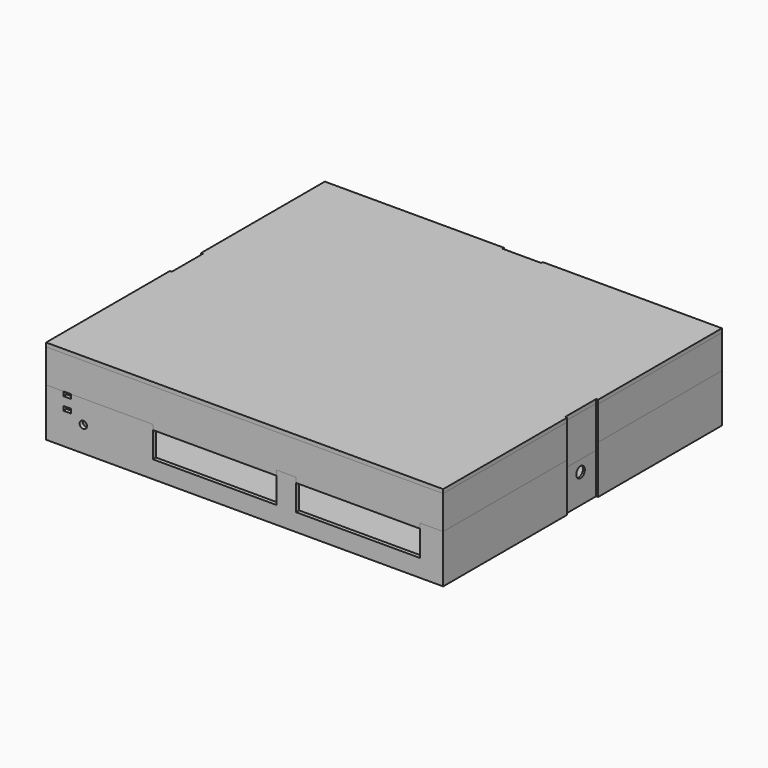
from build123d import *

# Parameters (mm, degrees)
PAD003_DEPTH           = 20
SKETCH_R               = 2.75
POCKET004_DEPTH        = 4
FILLET_R               = 1
SKETCH005_W            = 204
SKETCH005_H            = 179
SKETCH005_R            = 15
PAD_DEPTH              = 2
SKETCH006_R            = 5.075
SKETCH006_R_2          = 1.5
PAD004_DEPTH           = 5.25
POCKET_DEPTH           = 0.0001
SKETCH016_R            = 1.87
POCKET009_DEPTH        = 6
SKETCH008_W            = 204
SKETCH008_H            = 179
SKETCH008_W_2          = 200
SKETCH008_H_2          = 175
PAD005_DEPTH           = 22.8
SKETCH009_R            = 1.875
SKETCH009_W            = 63.55
SKETCH009_H            = 26.5
SKETCH009_W_2          = 3.9
SKETCH009_H_2          = 2.2
POCKET001_DEPTH        = 2
SKETCH011_R            = 17
SKETCH011_R_2          = 15
PAD006_DEPTH           = 2
POCKET005_DEPTH        = 4
SKETCH013_W            = 4
SKETCH013_H            = 20
SKETCH013_W_2          = 20
SKETCH013_H_2          = 4
POCKET006_DEPTH        = 24.8
SKETCH014_R            = 2.75
POCKET007_DEPTH        = 204
SKETCH015_R            = 2.75
POCKET008_DEPTH        = 2
POCKET010_DEPTH        = 2
LINEARPATTERN_COUNT    = 7
LINEARPATTERN_PITCH    = 12
SKETCH018_W            = 204
SKETCH018_H            = 179
SKETCH018_W_2          = 200
SKETCH018_H_2          = 175
PAD007_DEPTH           = 17.2
SKETCH019_W            = 204
SKETCH019_H            = 179
PAD008_DEPTH           = 2
SKETCH020_W            = 42.1
SKETCH020_H            = 1
SKETCH020_W_2          = 10
PAD009_DEPTH           = 4
SKETCH021_W            = 1
SKETCH021_H            = 20
SKETCH021_W_2          = 20
SKETCH021_H_2          = 1
POCKET011_DEPTH        = 19.2
POCKET012_DEPTH        = 2
LINEARPATTERN001_COUNT = 7
LINEARPATTERN001_PITCH = 12
SKETCH031_W            = 63.55
SKETCH031_H            = 2
PAD015_DEPTH           = 2.55
SKETCH023_W            = 204
SKETCH023_H            = 179
SKETCH023_W_2          = 200
SKETCH023_H_2          = 175
PAD010_DEPTH           = 17.2
SKETCH025_W            = 42.1
SKETCH025_H            = 1
SKETCH025_W_2          = 10
PAD012_DEPTH           = 4
POCKET014_DEPTH        = 2
LINEARPATTERN002_COUNT = 7
LINEARPATTERN002_PITCH = 12
SKETCH028_W            = 200
SKETCH028_H            = 175
SKETCH028_W_2          = 192
SKETCH028_H_2          = 167
PAD013_DEPTH           = 4
CHAMFER_SIZE           = 3.9
SKETCH029_W            = 1
SKETCH029_H            = 20
SKETCH029_W_2          = 20
SKETCH029_H_2          = 1
POCKET015_DEPTH        = 17.2
SKETCH030_W            = 63.55
SKETCH030_H            = 2
PAD014_DEPTH           = 2.55


with BuildPart() as locking_lever:
    # Sketch004 → Pad003 (new body)
    with BuildSketch(Plane.XY):
        Polygon((0, 4), (4, 0), (8, 0), (8, 6), (8, 46), (12, 46), (12, 48), (8, 52), (4, 52), (4, 46), (4, 6), (0, 6), align=None)
    extrude(amount=PAD003_DEPTH)

    # Sketch (on Face1 of Pad003) → Pocket004 (cut)
    with BuildSketch(Plane(origin=(4, 0, 0), x_dir=(0, -1, 0), z_dir=(-1, 0, 0))):
        with Locations((-15, 10)):
            Circle(SKETCH_R)
    extrude(amount=-POCKET004_DEPTH, mode=Mode.SUBTRACT)

    # Fillet
    fillet_edges = [locking_lever.edges().sort_by_distance(p)[0] for p in [
        (4, 26, 20),
        (4, 49, 20),
        (4, 52, 10),
        (4, 49, 0),
        (4, 26, 0),
        (0, 6, 10),
        (2, 6, 20),
        (2, 6, 0),
        (6, 52, 20),
        (6, 52, 0),
        (0, 5, 20),
        (0, 5, 0),
    ]]
    fillet(fillet_edges, radius=FILLET_R)


with BuildPart() as switch_bottom:
    # Sketch005 → Pad (new body)
    with BuildSketch(Plane.XY):
        with Locations((100, 87.5)):
            Rectangle(SKETCH005_W, SKETCH005_H)
        with Locations((42.875, 155)):
            Circle(SKETCH005_R, mode=Mode.SUBTRACT)
    extrude(amount=-PAD_DEPTH)

    # Sketch006 (on Face6 of Pad) → Pad004 (join)
    with BuildSketch(Plane.XY):
        with Locations((191.375, 29.5)):
            Circle(SKETCH006_R)
        with Locations((191.375, 29.5)):
            Circle(SKETCH006_R_2, mode=Mode.SUBTRACT)
        with Locations((8.375, 43.5)):
            Circle(SKETCH006_R)
        with Locations((8.375, 43.5)):
            Circle(SKETCH006_R_2, mode=Mode.SUBTRACT)
        with Locations((116.875, 70)):
            Circle(SKETCH006_R)
        with Locations((116.875, 70)):
            Circle(SKETCH006_R_2, mode=Mode.SUBTRACT)
        with Locations((191.375, 123)):
            Circle(SKETCH006_R)
        with Locations((191.375, 123)):
            Circle(SKETCH006_R_2, mode=Mode.SUBTRACT)
        with Locations((8.375, 123)):
            Circle(SKETCH006_R)
        with Locations((8.375, 123)):
            Circle(SKETCH006_R_2, mode=Mode.SUBTRACT)
    extrude(amount=PAD004_DEPTH)

    # Sketch007 (on Face15 of Pad004) → Pocket (cut)
    with BuildSketch(Plane.XY.offset(5.25)):
        Polygon((188.798521, 31.178506), (188.633132, 28.107957), (191.20961, 26.429451), (193.951479, 27.821494), (194.116868, 30.892043), (191.54039, 32.570549), align=None)
        Polygon((117.133421, 73.064122), (114.350603, 71.75586), (114.092182, 68.691738), (116.616579, 66.935878), (119.399397, 68.24414), (119.657818, 71.308262), align=None)
        Polygon((10.913507, 45.235398), (8.141354, 46.566111), (5.602847, 44.830712), (5.836493, 41.764602), (8.608646, 40.433889), (11.147153, 42.169288), align=None)
        Polygon((10.845599, 124.830782), (8.024796, 126.054993), (5.554196, 124.224211), (5.904401, 121.169218), (8.725204, 119.945007), (11.195804, 121.775789), align=None)
        Polygon((188.743648, 124.591104), (188.681387, 121.516735), (191.312739, 119.92563), (194.006352, 121.408896), (194.068613, 124.483265), (191.437261, 126.07437), align=None)
    extrude(amount=-POCKET_DEPTH, mode=Mode.SUBTRACT)

    # Sketch016 (on Face80 of Pocket008) → Pocket009 (cut)
    with BuildSketch(Plane.XY.offset(5.25)):
        with Locations((191.375, 29.5)):
            Circle(SKETCH016_R)
        with Locations((8.375, 43.5)):
            Circle(SKETCH016_R)
        with Locations((116.875, 70)):
            Circle(SKETCH016_R)
        with Locations((191.375, 123)):
            Circle(SKETCH016_R)
        with Locations((8.375, 123)):
            Circle(SKETCH016_R)
    extrude(amount=-POCKET009_DEPTH, mode=Mode.SUBTRACT)

    # Sketch008 (on Face4 of Pocket) → Pad005 (join)
    with BuildSketch(Plane.XY):
        with Locations((100, 87.5)):
            Rectangle(SKETCH008_W, SKETCH008_H)
        with Locations((100, 87.5)):
            Rectangle(SKETCH008_W_2, SKETCH008_H_2, mode=Mode.SUBTRACT)
    extrude(amount=PAD005_DEPTH)

    # Sketch009 (on Face4 of Pad005) → Pocket001 (cut)
    with BuildSketch(Plane.XZ.offset(2)):
        with Locations((17.125, 11)):
            Circle(SKETCH009_R)
        with Locations((84.65, 20.25)):
            Rectangle(SKETCH009_W, SKETCH009_H)
        with Locations((158.2, 20.25)):
            Rectangle(SKETCH009_W, SKETCH009_H)
        with Locations((8.825, 21.7)):
            Rectangle(SKETCH009_W_2, SKETCH009_H_2)
        with Locations((8.825, 15.1)):
            Rectangle(SKETCH009_W_2, SKETCH009_H_2)
    extrude(amount=-POCKET001_DEPTH, mode=Mode.SUBTRACT)

    # Sketch011 → Pad006 (join)
    with BuildSketch(Plane.XY):
        with Locations((42.875, 155)):
            Circle(SKETCH011_R)
        with Locations((42.875, 155)):
            Circle(SKETCH011_R_2, mode=Mode.SUBTRACT)
    extrude(amount=PAD006_DEPTH)

    # Sketch012 (on Face9 of Pad006) → Pocket005 (cut)
    with BuildSketch(Plane.XY.offset(22.8)):
        Polygon((-1, 176), (201, 176), (201, -1), (10.775, -1), (10.775, 0), (6.875, 0), (6.875, -1), (-1, -1), align=None)
    extrude(amount=-POCKET005_DEPTH, mode=Mode.SUBTRACT)

    # Sketch013 (on Face9 of Pocket005) → Pocket006 (cut)
    with BuildSketch(Plane.XY.offset(22.8)):
        with Locations((-3, 87.5)):
            Rectangle(SKETCH013_W, SKETCH013_H)
        with Locations((100, 178)):
            Rectangle(SKETCH013_W_2, SKETCH013_H_2)
        with Locations((203, 87.5)):
            Rectangle(SKETCH013_W, SKETCH013_H)
    extrude(amount=-POCKET006_DEPTH, mode=Mode.SUBTRACT)

    # Sketch014 (on Face28 of Pocket006) → Pocket007 (cut)
    with BuildSketch(Plane(origin=(-1, 0, 0), x_dir=(0, -1, 0), z_dir=(-1, 0, 0))):
        with Locations((-87.5, 13)):
            Circle(SKETCH014_R)
    extrude(amount=-POCKET007_DEPTH, mode=Mode.SUBTRACT)

    # Sketch015 (on Face33 of Pocket007) → Pocket008 (cut)
    with BuildSketch(Plane(origin=(0, 176, 0), x_dir=(-1, 0, 0), z_dir=(0, 1, 0))):
        with Locations((-100, 13)):
            Circle(SKETCH015_R)
    extrude(amount=-POCKET008_DEPTH, mode=Mode.SUBTRACT)

    # Sketch017 (on Face57 of Pocket008) → Pocket010 (cut)
    with BuildSketch(Plane(origin=(0, 177, 0), x_dir=(-1, 0, 0), z_dir=(0, 1, 0))):
        Polygon((-6, 4.5), (-7.299038, 2.25), (-4.700962, 2.25), align=None)
        Polygon((-4.700962, 8.25), (-6, 10.5), (-7.299038, 8.25), align=None)
        Polygon((-4.700962, 14.25), (-6, 16.5), (-7.299038, 14.25), align=None)
        Polygon((-10.700962, 11.25), (-12, 13.5), (-13.299038, 11.25), align=None)
        Polygon((-10.700962, 5.25), (-12, 7.5), (-13.299038, 5.25), align=None)
        Polygon((-114.700962, 11.25), (-116, 13.5), (-117.299038, 11.25), align=None)
        Polygon((-114.700962, 5.25), (-116, 7.5), (-117.299038, 5.25), align=None)
        Polygon((-120.700962, 14.25), (-122, 16.5), (-123.299038, 14.25), align=None)
        Polygon((-120.700962, 8.25), (-122, 10.5), (-123.299038, 8.25), align=None)
        Polygon((-120.700962, 2.25), (-122, 4.5), (-123.299038, 2.25), align=None)
    pocket010 = extrude(amount=-POCKET010_DEPTH, mode=Mode.SUBTRACT)

    # LinearPattern: Pocket010 ×7
    with Locations(*[(i * LINEARPATTERN_PITCH, 0, 0) for i in range(1, LINEARPATTERN_COUNT)]):
        add(pocket010, mode=Mode.SUBTRACT)


with BuildPart() as body002:
    # Sketch018 → Pad007 (new body)
    with BuildSketch(Plane.XY.offset(22.8)):
        with Locations((100, 87.5)):
            Rectangle(SKETCH018_W, SKETCH018_H)
        with Locations((100, 87.5)):
            Rectangle(SKETCH018_W_2, SKETCH018_H_2, mode=Mode.SUBTRACT)
    extrude(amount=PAD007_DEPTH)

    # Sketch019 (on Face10 of Pad007) → Pad008 (join)
    with BuildSketch(Plane.XY.offset(40)):
        with Locations((100, 87.5)):
            Rectangle(SKETCH019_W, SKETCH019_H)
    extrude(amount=PAD008_DEPTH)

    # Sketch020 (on Face4 of Pad008) → Pad009 (join)
    with BuildSketch(Plane(origin=(0, 0, 22.8), x_dir=(1, 0, 0), z_dir=(0, 0, -1))):
        Polygon((-1, 1), (6.875, 1), (6.875, 0), (0, 0), (0, -175), (200, -175), (200, 0), (189.975, 0), (189.975, 1), (201, 1), (201, -176), (-1, -176), align=None)
        with Locations((31.825, 0.5)):
            Rectangle(SKETCH020_W, SKETCH020_H)
        with Locations((121.425, 0.5)):
            Rectangle(SKETCH020_W_2, SKETCH020_H)
    extrude(amount=PAD009_DEPTH)

    # Sketch021 (on Face23 of Pad009) → Pocket011 (cut)
    with BuildSketch(Plane.XY.offset(42)):
        with Locations((-1.5, 87.5)):
            Rectangle(SKETCH021_W, SKETCH021_H)
        with Locations((100, 176.5)):
            Rectangle(SKETCH021_W_2, SKETCH021_H_2)
        with Locations((201.5, 87.5)):
            Rectangle(SKETCH021_W, SKETCH021_H)
    extrude(amount=-POCKET011_DEPTH, mode=Mode.SUBTRACT)

    # Sketch022 (on Face1 of Pocket011) → Pocket012 (cut)
    with BuildSketch(Plane(origin=(0, 177, 0), x_dir=(-1, 0, 0), z_dir=(0, 1, 0))):
        Polygon((-4.700962, 35.55), (-6, 37.8), (-7.299038, 35.55), align=None)
        Polygon((-4.700962, 29.55), (-6, 31.8), (-7.299038, 29.55), align=None)
        Polygon((-10.700962, 32.55), (-12, 34.8), (-13.299038, 32.55), align=None)
        Polygon((-10.700962, 26.55), (-12, 28.8), (-13.299038, 26.55), align=None)
        Polygon((-114.700962, 32.55), (-116, 34.8), (-117.299038, 32.55), align=None)
        Polygon((-114.700962, 26.55), (-116, 28.8), (-117.299038, 26.55), align=None)
        Polygon((-120.700962, 29.55), (-122, 31.8), (-123.299038, 29.55), align=None)
        Polygon((-120.700962, 35.55), (-122, 37.8), (-123.299038, 35.55), align=None)
    pocket012 = extrude(amount=-POCKET012_DEPTH, mode=Mode.SUBTRACT)

    # LinearPattern001: Pocket012 ×7
    with Locations(*[(i * LINEARPATTERN001_PITCH, 0, 0) for i in range(1, LINEARPATTERN001_COUNT)]):
        add(pocket012, mode=Mode.SUBTRACT)

    # Sketch031 (on Face16 of Pocket015) → Pad015 (join)
    with BuildSketch(Plane(origin=(0, 0, 22.8), x_dir=(1, 0, 0), z_dir=(0, 0, -1))):
        with Locations((84.65, 1)):
            Rectangle(SKETCH031_W, SKETCH031_H)
        with Locations((158.2, 1)):
            Rectangle(SKETCH031_W, SKETCH031_H)
    extrude(amount=PAD015_DEPTH)


with BuildPart() as body003:
    # Sketch023 → Pad010 (new body)
    with BuildSketch(Plane.XY.offset(22.8)):
        with Locations((100, 87.5)):
            Rectangle(SKETCH023_W, SKETCH023_H)
        with Locations((100, 87.5)):
            Rectangle(SKETCH023_W_2, SKETCH023_H_2, mode=Mode.SUBTRACT)
    extrude(amount=PAD010_DEPTH)

    # Sketch025 → Pad012 (join)
    with BuildSketch(Plane(origin=(0, 0, 22.8), x_dir=(1, 0, 0), z_dir=(0, 0, -1))):
        Polygon((-1, 1), (6.875, 1), (6.875, 0), (0, 0), (0, -175), (200, -175), (200, 0), (189.975, 0), (189.975, 1), (201, 1), (201, -176), (-1, -176), align=None)
        with Locations((31.825, 0.5)):
            Rectangle(SKETCH025_W, SKETCH025_H)
        with Locations((121.425, 0.5)):
            Rectangle(SKETCH025_W_2, SKETCH025_H)
    extrude(amount=PAD012_DEPTH)

    # Sketch027 → Pocket014 (cut)
    with BuildSketch(Plane(origin=(0, 177, 0), x_dir=(-1, 0, 0), z_dir=(0, 1, 0))):
        Polygon((-6, 31.8), (-4.700962, 34.05), (-7.299038, 34.05), align=None)
        Polygon((-6, 25.8), (-4.700962, 28.05), (-7.299038, 28.05), align=None)
        Polygon((-12, 28.8), (-10.700962, 31.05), (-13.299038, 31.05), align=None)
        Polygon((-12, 22.8), (-10.700962, 25.05), (-13.299038, 25.05), align=None)
        Polygon((-116, 28.8), (-114.700962, 31.05), (-117.299038, 31.05), align=None)
        Polygon((-114.700962, 25.05), (-117.299038, 25.05), (-116, 22.8), align=None)
        Polygon((-120.700962, 28.05), (-123.299038, 28.05), (-122, 25.8), align=None)
        Polygon((-120.700962, 34.05), (-123.299038, 34.05), (-122, 31.8), align=None)
    pocket014 = extrude(amount=-POCKET014_DEPTH, mode=Mode.SUBTRACT)

    # LinearPattern002: Pocket014 ×7
    with Locations(*[(i * LINEARPATTERN002_PITCH, 0, 0) for i in range(1, LINEARPATTERN002_COUNT)]):
        add(pocket014, mode=Mode.SUBTRACT)

    # Sketch028 (on Face17 of LinearPattern002) → Pad013 (join)
    with BuildSketch(Plane.XY.offset(40)):
        with Locations((100, 87.5)):
            Rectangle(SKETCH028_W, SKETCH028_H)
        with Locations((100, 87.5)):
            Rectangle(SKETCH028_W_2, SKETCH028_H_2, mode=Mode.SUBTRACT)
    extrude(amount=-PAD013_DEPTH)

    # Chamfer
    chamfer_edges = [body003.edges().sort_by_distance(p)[0] for p in [
        (196, 87.5, 36),
        (100, 171, 36),
        (100, 4, 36),
        (4, 87.5, 36),
    ]]
    chamfer(chamfer_edges, length=CHAMFER_SIZE)

    # Sketch029 (on Face224 of Chamfer) → Pocket015 (cut)
    with BuildSketch(Plane.XY.offset(40)):
        with Locations((-1.5, 87.5)):
            Rectangle(SKETCH029_W, SKETCH029_H)
        with Locations((201.5, 87.5)):
            Rectangle(SKETCH029_W, SKETCH029_H)
        with Locations((100, 176.5)):
            Rectangle(SKETCH029_W_2, SKETCH029_H_2)
    extrude(amount=-POCKET015_DEPTH, mode=Mode.SUBTRACT)

    # Sketch030 (on Face16 of Pocket015) → Pad014 (join)
    with BuildSketch(Plane(origin=(0, 0, 22.8), x_dir=(1, 0, 0), z_dir=(0, 0, -1))):
        with Locations((84.65, 1)):
            Rectangle(SKETCH030_W, SKETCH030_H)
        with Locations((158.2, 1)):
            Rectangle(SKETCH030_W, SKETCH030_H)
    extrude(amount=PAD014_DEPTH)


solid = Compound([locking_lever.part, switch_bottom.part, body002.part, body003.part])
